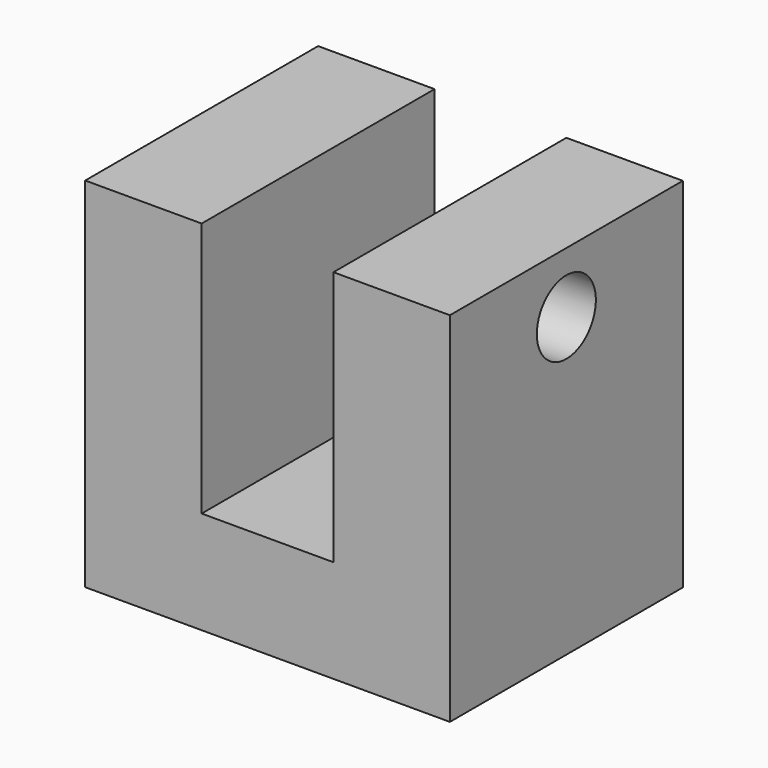
from build123d import *

# Parameters (mm, degrees)
F1_DEPTH = 15
F3_D     = 3.8
F3_DEPTH = 8


with BuildPart() as f1:
    # F0 (on Front) → F1 (new body)
    with BuildSketch(Plane.XZ):
        Polygon((0, 18.447189), (0, 0), (18.790187, 0), (18.790187, 18.447189), (12.790187, 18.447189), (12.790187, 5.292076), (6, 5.292076), (6, 18.447189), align=None)
    extrude(amount=F1_DEPTH)

    # F3
    with Locations(Plane.YZ.offset(18.790187)):
        with Locations((-7.5, 15.315304)):
            Hole(F3_D / 2, depth=F3_DEPTH)


solid = f1.part
